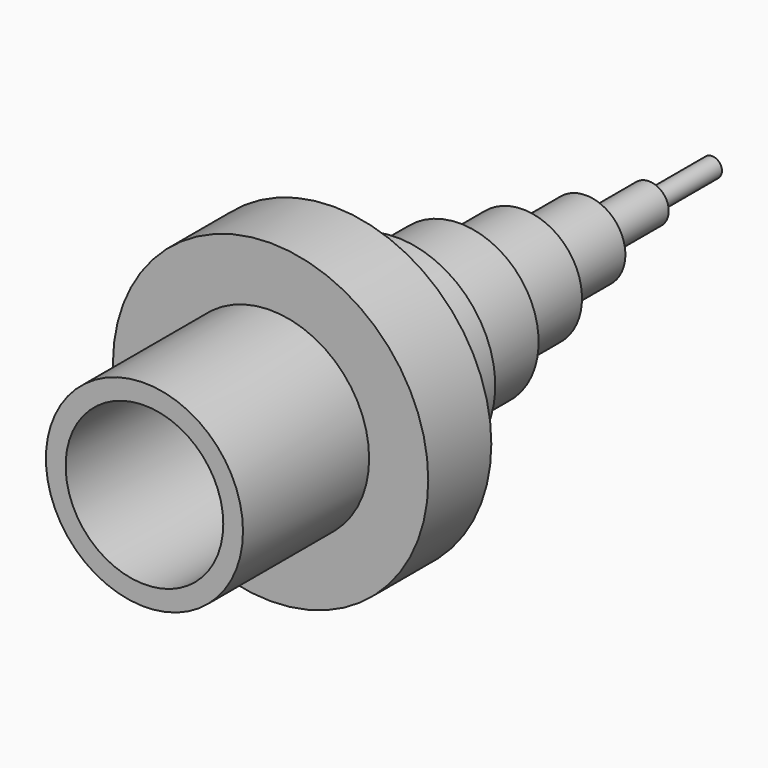
from build123d import *

# Parameters (mm, degrees)
F0_R      = 40
F1_DEPTH  = 10
F2_R      = 25
F3_DEPTH  = 20
F4_R      = 20
F5_DEPTH  = 20
F6_R      = 15
F7_DEPTH  = 20
F8_R      = 10
F9_DEPTH  = 20
F10_R     = 5
F11_DEPTH = 20
F12_R     = 2.5
F13_DEPTH = 20
F14_R     = 25
F14_R_2   = 20
F15_DEPTH = 40


with BuildPart() as f1:
    # F0 (on Front) → F1 (new body, symmetric)
    with BuildSketch(Plane.XZ):
        Circle(F0_R)
    extrude(amount=F1_DEPTH, both=True)

    # F2 (on face) → F3 (join)
    with BuildSketch(Plane(origin=(0, 10, 0), x_dir=(-1, 0, 0), z_dir=(0, 1, 0))):
        Circle(F2_R)
    extrude(amount=F3_DEPTH)

    # F4 (on face) → F5 (join)
    with BuildSketch(Plane(origin=(0, 30, 0), x_dir=(-1, 0, 0), z_dir=(0, 1, 0))):
        Circle(F4_R)
    extrude(amount=F5_DEPTH)

    # F6 (on face) → F7 (join)
    with BuildSketch(Plane(origin=(0, 50, 0), x_dir=(-1, 0, 0), z_dir=(0, 1, 0))):
        Circle(F6_R)
    extrude(amount=F7_DEPTH)

    # F8 (on face) → F9 (join)
    with BuildSketch(Plane(origin=(0, 70, 0), x_dir=(-1, 0, 0), z_dir=(0, 1, 0))):
        Circle(F8_R)
    extrude(amount=F9_DEPTH)

    # F10 (on face) → F11 (join)
    with BuildSketch(Plane(origin=(0, 90, 0), x_dir=(-1, 0, 0), z_dir=(0, 1, 0))):
        Circle(F10_R)
    extrude(amount=F11_DEPTH)

    # F12 (on face) → F13 (join)
    with BuildSketch(Plane(origin=(0, 110, 0), x_dir=(-1, 0, 0), z_dir=(0, 1, 0))):
        Circle(F12_R)
    extrude(amount=F13_DEPTH)

    # F14 (on face) → F15 (join)
    with BuildSketch(Plane.XZ.offset(10)):
        Circle(F14_R)
        Circle(F14_R_2, mode=Mode.SUBTRACT)
    extrude(amount=F15_DEPTH)


solid = f1.part
